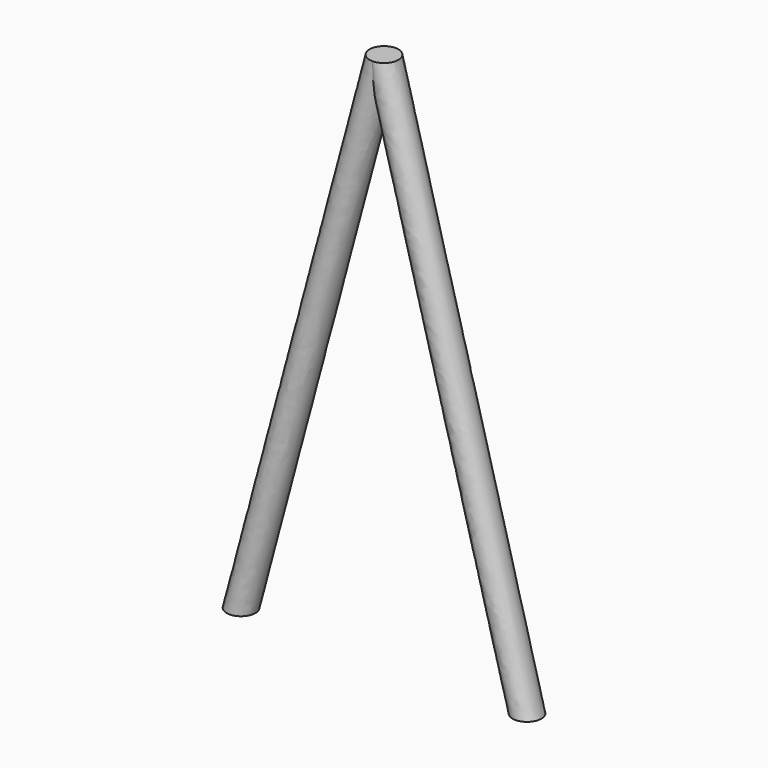
from build123d import *

# Parameters (mm, degrees)
F1_R = 15.875


with BuildPart() as f2:
    # F2: sweep along a path in F0
    with BuildLine(Plane.XZ) as f2_path:
        Line((0, 588.828384), (157.77609, 0))
    # F1 (on Top) → F2 (sweep)
    with BuildSketch(Plane.XY):
        with Locations((157.77609, 0)):
            Circle(F1_R)
    sweep(path=f2_path.line)

    # F3: sweep along a path in F0
    with BuildLine(Plane.XZ) as f3_path:
        Line((0, 588.828384), (-157.77609, 0))
    # F1 (on Top) → F3 (sweep)
    with BuildSketch(Plane.XY):
        with Locations((-157.77609, 0)):
            Circle(F1_R)
    sweep(path=f3_path.line)


solid = f2.part
